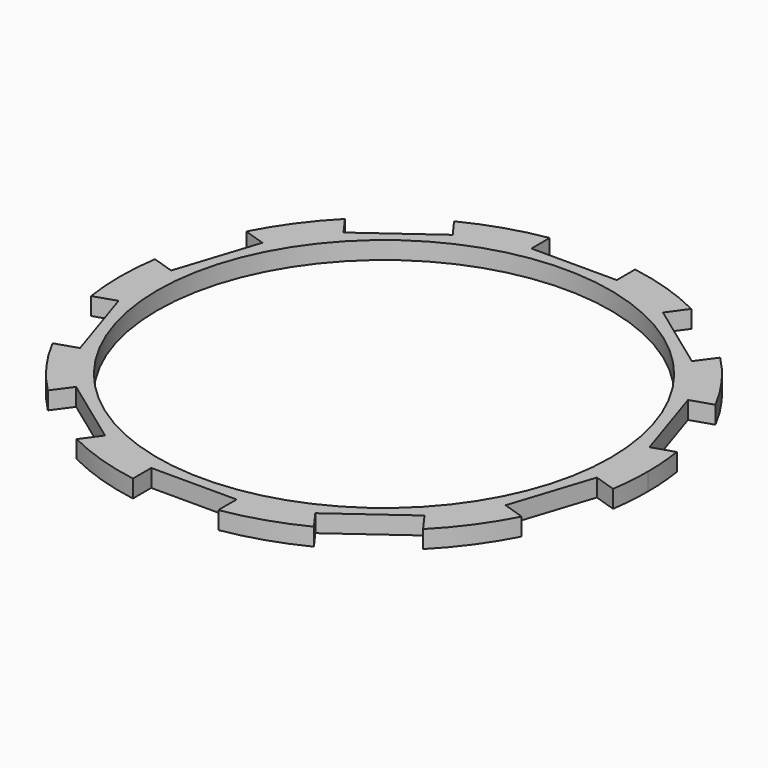
from build123d import *

# Parameters (mm, degrees)
F1_R     = 51.5
F2_DEPTH = 4


with BuildPart() as f2:
    # F1 (on Top) → F2 (new body)
    with BuildSketch(Plane.XY):
        with BuildLine():
            ThreePointArc((59.310211, -9.071872), (59.827304, -4.549029), (60, 0))
            ThreePointArc((60, 0), (59.827304, 4.549029), (59.310211, 9.071872))
            Line((59.310211, 9.071872), (54.354517, 7.461669))
            Line((54.354517, 7.461669), (48.359587, 25.912166))
            Line((48.359587, 25.912166), (53.315281, 27.522369))
            ThreePointArc((53.315281, 27.522369), (48.54102, 35.267115), (42.650656, 42.200966))
            Line((42.650656, 42.200966), (39.587868, 37.985401))
            Line((39.587868, 37.985401), (23.892939, 49.388435))
            Line((23.892939, 49.388435), (26.955726, 53.604))
            ThreePointArc((26.955726, 53.604), (18.54102, 57.063391), (9.7, 59.210725))
            Line((9.7, 59.210725), (9.7, 54))
            Line((9.7, 54), (-9.7, 54))
            Line((-9.7, 54), (-9.7, 59.210725))
            ThreePointArc((-9.7, 59.210725), (-18.54102, 57.063391), (-26.955726, 53.604))
            Line((-26.955726, 53.604), (-23.892939, 49.388435))
            Line((-23.892939, 49.388435), (-39.587868, 37.985401))
            Line((-39.587868, 37.985401), (-42.650656, 42.200966))
            ThreePointArc((-42.650656, 42.200966), (-48.54102, 35.267115), (-53.315281, 27.522369))
            Line((-53.315281, 27.522369), (-48.359587, 25.912166))
            Line((-48.359587, 25.912166), (-54.354517, 7.461669))
            Line((-54.354517, 7.461669), (-59.310211, 9.071872))
            ThreePointArc((-59.310211, 9.071872), (-60, 0), (-59.310211, -9.071872))
            Line((-59.310211, -9.071872), (-54.354517, -7.461669))
            Line((-54.354517, -7.461669), (-48.359587, -25.912166))
            Line((-48.359587, -25.912166), (-53.315281, -27.522369))
            ThreePointArc((-53.315281, -27.522369), (-48.54102, -35.267115), (-42.650656, -42.200966))
            Line((-42.650656, -42.200966), (-39.587868, -37.985401))
            Line((-39.587868, -37.985401), (-23.892939, -49.388435))
            Line((-23.892939, -49.388435), (-26.955726, -53.604))
            ThreePointArc((-26.955726, -53.604), (-18.54102, -57.063391), (-9.7, -59.210725))
            Line((-9.7, -59.210725), (-9.7, -54))
            Line((-9.7, -54), (9.7, -54))
            Line((9.7, -54), (9.7, -59.210725))
            ThreePointArc((9.7, -59.210725), (18.54102, -57.063391), (26.955726, -53.604))
            Line((26.955726, -53.604), (23.892939, -49.388435))
            Line((23.892939, -49.388435), (39.587868, -37.985401))
            Line((39.587868, -37.985401), (42.650656, -42.200966))
            ThreePointArc((42.650656, -42.200966), (48.54102, -35.267115), (53.315281, -27.522369))
            Line((53.315281, -27.522369), (48.359587, -25.912166))
            Line((48.359587, -25.912166), (54.354517, -7.461669))
            Line((54.354517, -7.461669), (59.310211, -9.071872))
        make_face()
        Circle(F1_R, mode=Mode.SUBTRACT)
    extrude(amount=F2_DEPTH)


solid = f2.part
